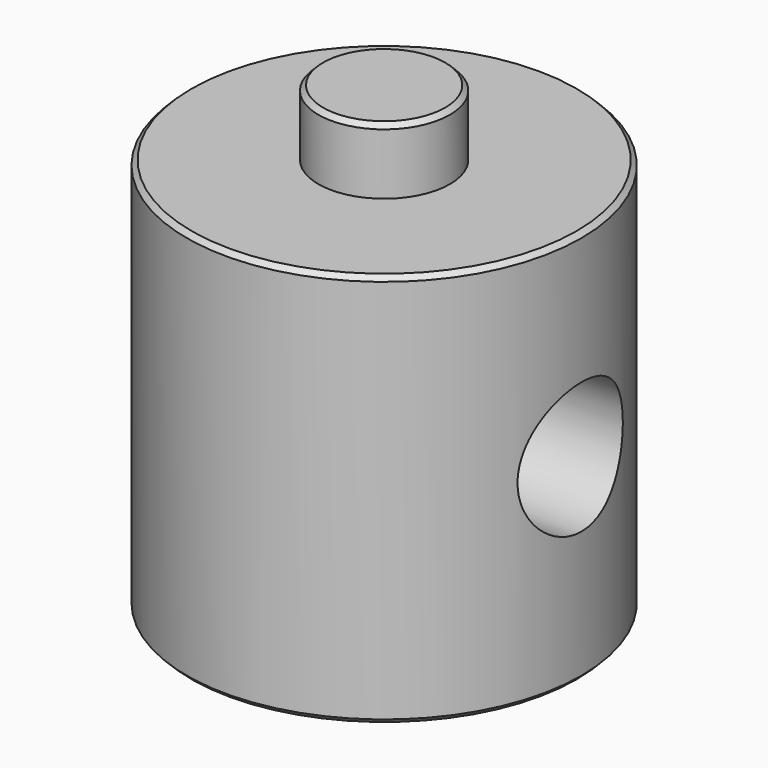
from build123d import *

# Parameters (mm, degrees)
F0_R          = 9.525
F1_DEPTH      = 19.05
F2_R          = 3.175
F3_DEPTH      = 3.175
F4_R          = 3.175
F5_DEPTH      = 3.175
F6_R          = 3.175
F7_DEPTH      = 9.526
F7_DEPTH_BACK = 25.4
F8_SIZE       = 0.2286


with BuildPart() as f1:
    # F0 (on Top) → F1 (new body)
    with BuildSketch(Plane.XY):
        Circle(F0_R)
    extrude(amount=F1_DEPTH)

    # F2 (on face) → F3 (join)
    with BuildSketch(Plane.XY.offset(19.05)):
        Circle(F2_R)
    extrude(amount=F3_DEPTH)

    # F4 (on face) → F5 (join)
    with BuildSketch(Plane(origin=(0, 0, 0), x_dir=(1, 0, 0), z_dir=(0, 0, -1))):
        Circle(F4_R)
    extrude(amount=F5_DEPTH)

    # F6 (on Right) → F7 (cut, two sides)
    with BuildSketch(Plane.YZ) as f7_sk:
        with Locations((0, 9.525)):
            Circle(F6_R)
    extrude(amount=-F7_DEPTH, mode=Mode.SUBTRACT)
    extrude(f7_sk.sketch, amount=F7_DEPTH_BACK, mode=Mode.SUBTRACT)

    # F8
    f8_edges = [f1.edges().sort_by_distance(p)[0] for p in [
        (-3.175, 0, 22.225),
        (-9.525, 0, 19.05),
        (-3.175, 0, -3.175),
        (-9.525, 0, 0),
    ]]
    chamfer(f8_edges, length=F8_SIZE)


solid = f1.part
